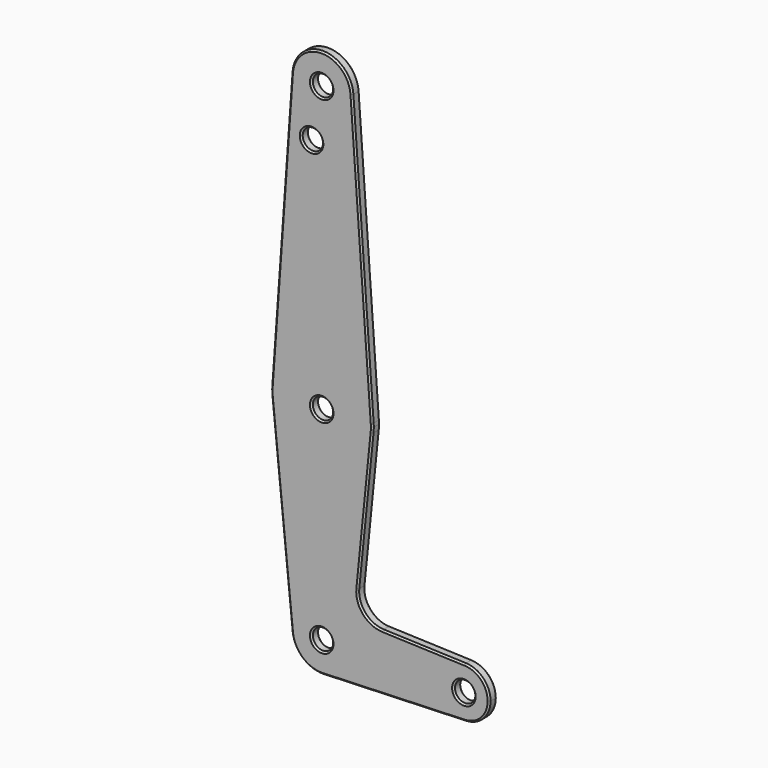
from build123d import *

# Parameters (mm, degrees)
F0_R     = 3.175
F1_DEPTH = 3.048
F2_SIZE  = 0.508
F3_SIZE  = 0.508


with BuildPart() as f1:
    # F0 (on Front) → F1 (new body)
    with BuildSketch(Plane.XZ):
        with BuildLine():
            ThreePointArc((0.340179, -9.518923), (6.854408, -6.613827), (9.525, 0))
            ThreePointArc((9.525, 0), (-0.476848, 9.513056), (-9.477255, -0.9525))
            ThreePointArc((-9.477255, -0.9525), (-6.262383, -7.17692), (0.340179, -9.518923))
        make_face()
        Circle(F0_R, mode=Mode.SUBTRACT)
        with BuildLine():
            ThreePointArc((9.50067, 153.080357), (0, 161.925), (-9.50067, 153.080357))
            ThreePointArc((-9.50067, 153.080357), (-0.340396, 142.881084), (9.525, 152.4))
            ThreePointArc((9.525, 152.4), (9.518916, 152.740396), (9.50067, 153.080357))
        make_face()
        with Locations((0, 152.4)):
            Circle(F0_R, mode=Mode.SUBTRACT)
        with BuildLine():
            ThreePointArc((44.733482, 7.932436), (36.5125, 0), (44.733482, -7.932436))
            ThreePointArc((44.733482, -7.932436), (50.162007, -5.511523), (52.3875, 0))
            ThreePointArc((52.3875, 0), (50.162007, 5.511523), (44.733482, 7.932436))
        make_face()
        with Locations((44.45, 0)):
            Circle(F0_R, mode=Mode.SUBTRACT)
        with BuildLine():
            ThreePointArc((-9.477255, -0.9525), (-0.476848, 9.513056), (9.525, 0))
            ThreePointArc((9.525, 0), (6.854408, -6.613827), (0.340179, -9.518923))
            Line((0.340179, -9.518923), (44.733482, -7.932436))
            ThreePointArc((44.733482, -7.932436), (36.5125, 0), (44.733482, 7.932436))
            Line((44.733482, 7.932436), (18.9676, 8.853234))
            ThreePointArc((18.9676, 8.853234), (13.2612, 11.571359), (11.341187, 17.593382))
            Line((11.341187, 17.593382), (15.795426, 61.9125))
            ThreePointArc((15.795426, 61.9125), (0, 47.625), (-15.795426, 61.9125))
            Line((-15.795426, 61.9125), (-9.477255, -0.9525))
        make_face()
        with BuildLine():
            ThreePointArc((-15.834451, 64.633929), (-15.873368, 63.272376), (-15.795426, 61.9125))
            ThreePointArc((-15.795426, 61.9125), (0, 47.625), (15.795426, 61.9125))
            ThreePointArc((15.795426, 61.9125), (15.855094, 62.705253), (15.875, 63.5))
            ThreePointArc((15.875, 63.5), (15.864859, 64.067327), (15.834451, 64.633929))
            ThreePointArc((15.834451, 64.633929), (0, 79.375), (-15.834451, 64.633929))
        make_face()
        with Locations((0, 63.5)):
            Circle(F0_R, mode=Mode.SUBTRACT)
        with BuildLine():
            Line((-9.50067, 153.080357), (-15.834451, 64.633929))
            ThreePointArc((-15.834451, 64.633929), (0, 79.375), (15.834451, 64.633929))
            Line((15.834451, 64.633929), (9.50067, 153.080357))
            ThreePointArc((9.50067, 153.080357), (9.518916, 152.740396), (9.525, 152.4))
            ThreePointArc((9.525, 152.4), (-0.340396, 142.881084), (-9.50067, 153.080357))
        make_face()
        with Locations((-3.175, 136.5504)):
            Circle(F0_R, mode=Mode.SUBTRACT)
    extrude(amount=F1_DEPTH)

    # F2
    f2_edges = [f1.edges().sort_by_distance(p)[0] for p in [
        (-6.262383, -3.048, -7.17692),
        (22.53683, -3.048, -8.72568),
        (52.3875, -3.048, 0),
        (31.850541, -3.048, 8.392835),
        (13.2612, -3.048, 11.571359),
        (13.568306, -3.048, 39.752941),
        (15.873368, -3.048, 63.272376),
        (12.667561, -3.048, 108.857143),
        (0, -3.048, 161.925),
        (-12.667561, -3.048, 108.857143),
        (-15.873368, -3.048, 63.272376),
        (-12.63634, -3.048, 30.48),
        (-3.175, -3.048, 0),
        (41.275, -3.048, 0),
        (-3.175, -3.048, 63.5),
        (-6.35, -3.048, 136.5504),
        (-3.175, -3.048, 152.4),
    ]]
    chamfer(f2_edges, length=F2_SIZE)

    # F3
    f3_edges = [f1.edges().sort_by_distance(p)[0] for p in [
        (-6.262383, 0, -7.17692),
        (22.53683, 0, -8.72568),
        (52.3875, 0, 0),
        (31.850541, 0, 8.392835),
        (13.2612, 0, 11.571359),
        (13.568306, 0, 39.752941),
        (15.873368, 0, 63.272376),
        (12.667561, 0, 108.857143),
        (0, 0, 161.925),
        (-12.667561, 0, 108.857143),
        (-15.873368, 0, 63.272376),
        (-12.63634, 0, 30.48),
        (-3.175, 0, 0),
        (41.275, 0, 0),
        (-3.175, 0, 63.5),
        (-6.35, 0, 136.5504),
        (-3.175, 0, 152.4),
    ]]
    chamfer(f3_edges, length=F3_SIZE)


solid = f1.part
